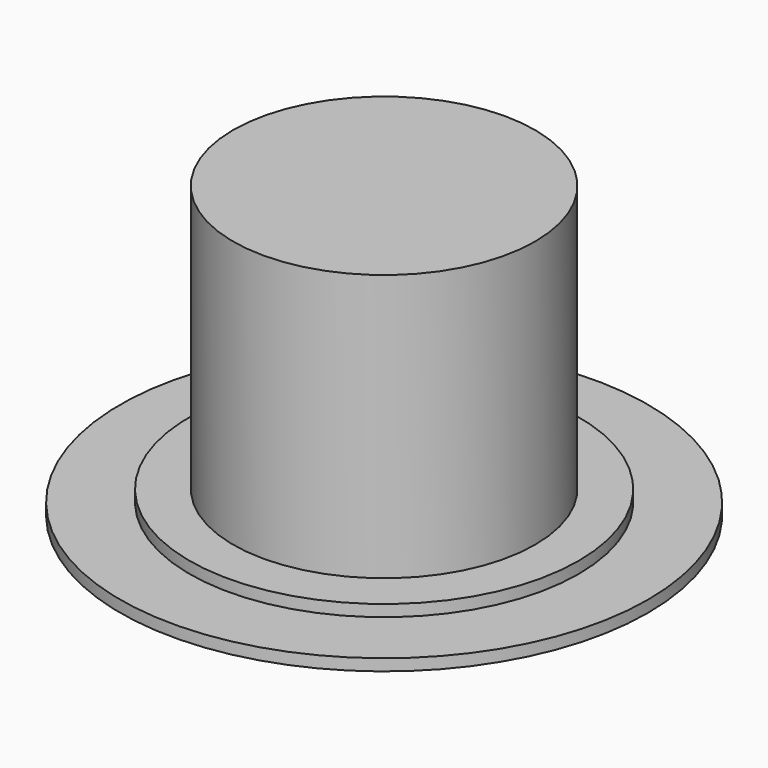
from build123d import *

# Parameters (mm, degrees)
F0_R     = 45.491537
F3_DEPTH = 2
F1_R     = 33.53132
F4_DEPTH = 4
F2_R     = 26.021397
F5_DEPTH = 50


with BuildPart() as f3:
    # F0 (on Top) → F3 (new body)
    with BuildSketch(Plane.XY):
        Circle(F0_R)
    extrude(amount=F3_DEPTH)

    # F1 (on Top) → F4 (join)
    with BuildSketch(Plane.XY):
        Circle(F1_R)
    extrude(amount=F4_DEPTH)

    # F2 (on Top) → F5 (join)
    with BuildSketch(Plane.XY):
        Circle(F2_R)
    extrude(amount=F5_DEPTH)


solid = f3.part
